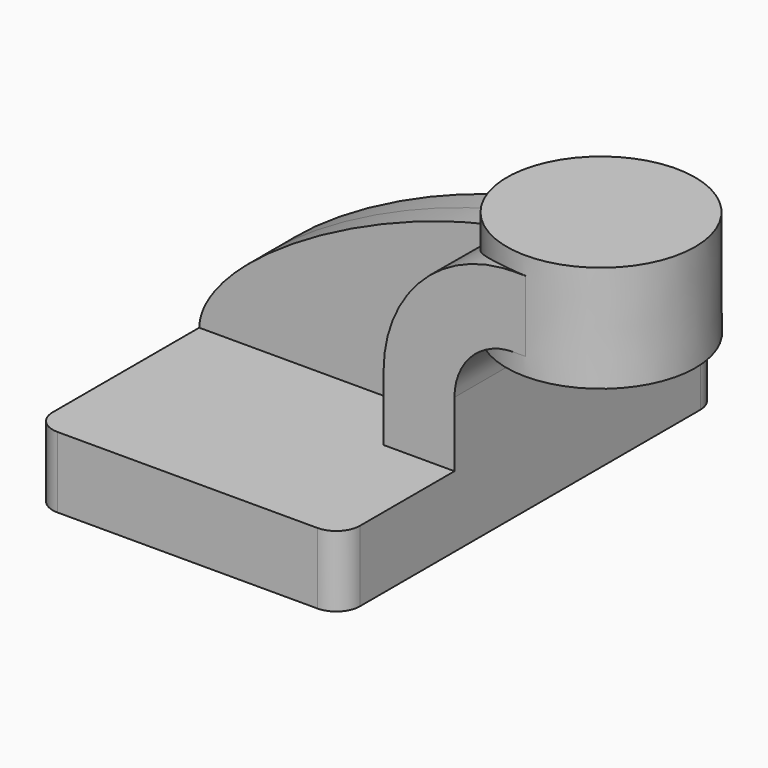
from build123d import *

# Parameters (mm, degrees)
F1_DEPTH = 63.5
F2_DEPTH = 25.4
F3_DEPTH = 7.9375
F5_R     = 6.35


with BuildPart() as f1:
    # F0 (on Front) → F1 (new body, symmetric)
    with BuildSketch(Plane.XZ):
        Polygon((22.225, 9.525), (-41.275, 9.525), (-41.275, -9.525), (41.275, -9.525), (41.275, 9.525), align=None)
    extrude(amount=F1_DEPTH, both=True)

    # F0 (on Front) → F2 (join, symmetric)
    with BuildSketch(Plane.XZ):
        with BuildLine():
            Line((22.225, 27.0002), (22.225, 9.525))
            Line((22.225, 9.525), (41.275, 9.525))
            Line((41.275, 9.525), (41.275, 27.0002))
            ThreePointArc((41.275, 27.0002), (45.92468, 38.22552), (57.15, 42.8752))
            Line((57.15, 42.8752), (60.325, 42.8752))
            Line((60.325, 42.8752), (60.325, 61.9252))
            Line((60.325, 61.9252), (57.15, 61.9252))
            add(Edge.make_bspline(
                [(54.083062, 61.790278), (55.113813, 61.853181), (56.136476, 61.898364), (57.15, 61.9252)],
                knots=[108.768433, 108.768433, 108.768433, 108.768433, 111.504536, 111.504536, 111.504536, 111.504536], degree=3))
            ThreePointArc((54.083062, 61.790278), (31.392783, 50.586667), (22.225, 27.0002))
        make_face()
    extrude(amount=F2_DEPTH, both=True)

    # F0 (on Front) → F3 (join, symmetric)
    with BuildSketch(Plane.XZ):
        with BuildLine():
            add(Edge.make_bspline(
                [(-41.275, 9.525), (-40.650702, 28.784269), (13.107559, 59.289674), (54.083062, 61.790278)],
                knots=[0, 0, 0, 0, 108.768433, 108.768433, 108.768433, 108.768433], degree=3))
            Line((-41.275, 9.525), (22.225, 9.525))
            Line((22.225, 9.525), (22.225, 27.0002))
            ThreePointArc((22.225, 27.0002), (31.392783, 50.586667), (54.083062, 61.790278))
        make_face()
    extrude(amount=F3_DEPTH, both=True)

    # F0 (on Front) → F4 (revolve)
    with BuildSketch(Plane.XZ):
        Polygon((60.325, 66.675), (60.325, 61.9252), (60.325, 42.8752), (60.325, 38.1), (85.725, 38.1), (85.616186, 66.675), align=None)
    revolve(axis=Axis((60.325, 0, 52.3875), (0, 0, 1)))

    # F5
    f5_edges = [f1.edges().sort_by_distance(p)[0] for p in [
        (41.275, -63.5, 0),
        (-41.275, -63.5, 0),
        (41.275, 63.5, 0),
        (-41.275, 63.5, 0),
    ]]
    fillet(f5_edges, radius=F5_R)


solid = f1.part
